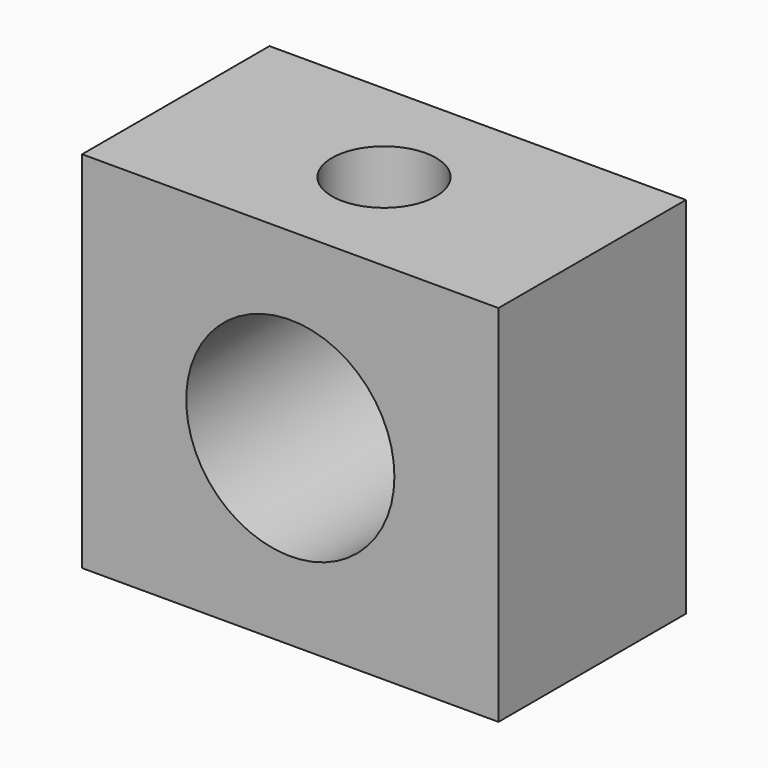
from build123d import *

# Parameters (mm, degrees)
F0_W     = 80
F0_H     = 70
F1_DEPTH = 45
F2_R     = 20
F3_DEPTH = 45.001
F4_R     = 10
F5_DEPTH = 25


with BuildPart() as f1:
    # F0 (on Front) → F1 (new body)
    with BuildSketch(Plane.XZ):
        Rectangle(F0_W, F0_H)
    extrude(amount=-F1_DEPTH)

    # F2 (on face) → F3 (cut, through all)
    with BuildSketch(Plane.XZ):
        Circle(F2_R)
    extrude(amount=-F3_DEPTH, mode=Mode.SUBTRACT)

    # F4 (on face) → F5 (cut)
    with BuildSketch(Plane.XY.offset(35)):
        with Locations((0, 22.5)):
            Circle(F4_R)
    extrude(amount=-F5_DEPTH, mode=Mode.SUBTRACT)


solid = f1.part
